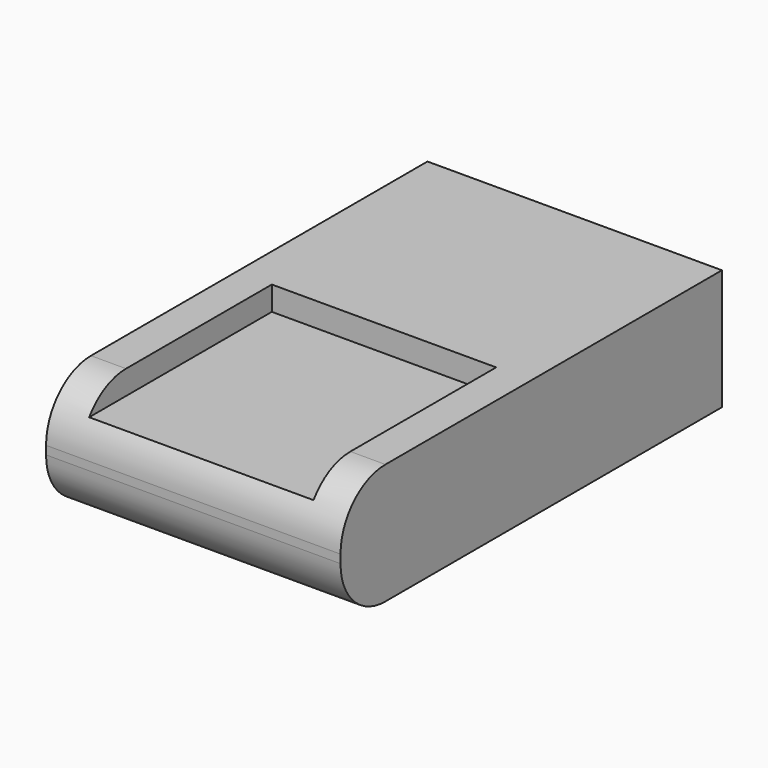
from build123d import *

# Parameters (mm, degrees)
F0_W     = 170
F0_H     = 3
F1_DEPTH = 52.5
F3_DEPTH = 40
F4_DEPTH = 40


with BuildPart() as f1:
    # F0 (on Right) → F1 (new body, symmetric)
    with BuildSketch(Plane.YZ):
        with BuildLine():
            ThreePointArc((-65, 21.5), (-79.142136, 15.642136), (-85, 1.5))
            Line((-85, 1.5), (85, 1.5))
            Line((85, 1.5), (85, 21.5))
            Line((85, 21.5), (-65, 21.5))
        make_face()
        with BuildLine():
            Line((85, -1.5), (-85, -1.5))
            ThreePointArc((-85, -1.5), (-79.142136, -15.642136), (-65, -21.5))
            Line((-65, -21.5), (85, -21.5))
            Line((85, -21.5), (85, -1.5))
        make_face()
        Rectangle(F0_W, F0_H)
    extrude(amount=F1_DEPTH, both=True)

    # F2 (on Right) → F3 (cut, symmetric)
    with BuildSketch(Plane.YZ):
        Polygon((0, 12.922657), (0, 22.922657), (-87.274782, 22.922657), (-84.384896, 12.922657), align=None)
    extrude(amount=F3_DEPTH, both=True, mode=Mode.SUBTRACT)

    # F2 (on Right) → F4 (cut, symmetric)
    with BuildSketch(Plane.YZ):
        Polygon((-75, -11.5), (75, -11.5), (75, 9.5), (-75, 9.5), (-75, 1.5), (-75, 0), (-75, -1.5), align=None)
        Polygon((0, 12.922657), (0, 22.922657), (-87.274782, 22.922657), (-84.384896, 12.922657), align=None)
    extrude(amount=F4_DEPTH, both=True, mode=Mode.SUBTRACT)


solid = f1.part
